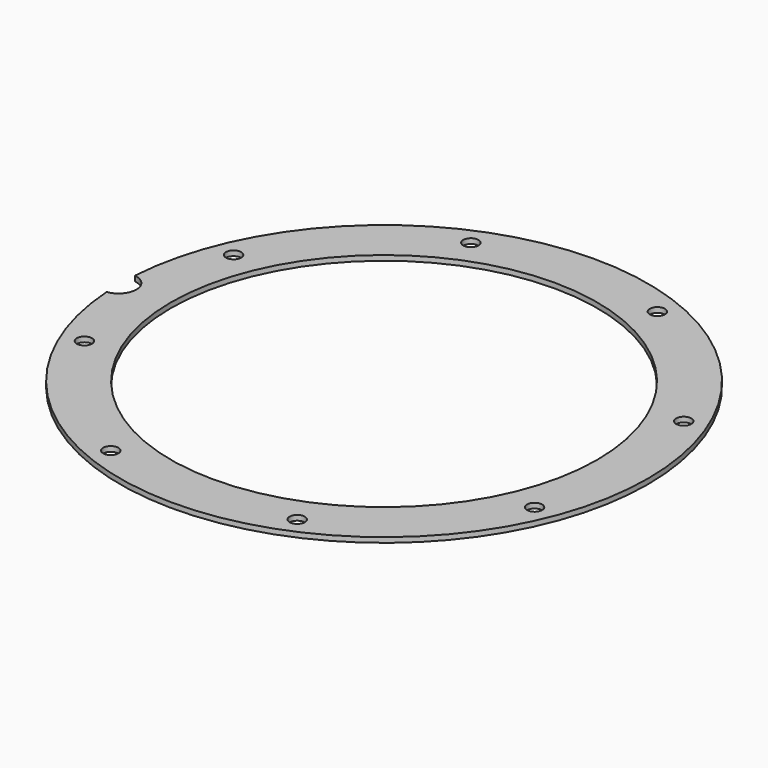
from build123d import *

# Parameters (mm, degrees)
CYLINDER838_R               = 3.5
CYLINDER838_DEPTH           = 20
CYLINDER844_R               = 1.5
CYLINDER844_DEPTH           = 10
CYLINDER844_PLACEMENT_ANGLE = 67.5
CYLINDER845_R               = 1.5
CYLINDER845_DEPTH           = 10
CYLINDER845_PLACEMENT_ANGLE = 112.5
CYLINDER841_R               = 1.5
CYLINDER841_DEPTH           = 10
CYLINDER841_PLACEMENT_ANGLE = 157.5
CYLINDER847_R               = 1.5
CYLINDER847_DEPTH           = 10
CYLINDER847_PLACEMENT_ANGLE = 202.5
CYLINDER839_R               = 1.5
CYLINDER839_DEPTH           = 10
CYLINDER839_PLACEMENT_ANGLE = 112.500002
CYLINDER849_R               = 1.5
CYLINDER849_DEPTH           = 10
CYLINDER849_PLACEMENT_ANGLE = 67.5
CYLINDER848_R               = 1.5
CYLINDER848_DEPTH           = 10
CYLINDER848_PLACEMENT_ANGLE = 22.5
CYLINDER846_R               = 1.5
CYLINDER846_DEPTH           = 10
CYLINDER846_PLACEMENT_ANGLE = 22.5
TUBE080_R                   = 52
TUBE080_R_2                 = 42
TUBE080_DEPTH               = 1


with BuildPart() as obj1:
    # Cylinder838 → Cylinder838 (new body)
    with BuildSketch(Plane(origin=(-52.3, 0, 29), x_dir=(1, 0, 0), z_dir=(0, 0, 1))):
        Circle(CYLINDER838_R)
    extrude(amount=CYLINDER838_DEPTH)


with BuildPart() as obj2:
    # Cylinder844 → Cylinder844 (new body)
    with BuildSketch(Plane.XY):
        Circle(CYLINDER844_R)
    extrude(amount=CYLINDER844_DEPTH)


with BuildPart() as obj2_1:
    # Cylinder844 placement: moved
    add(obj2.part.moved(Location((44.346218, -18.368805, 35.5))).rotate(Axis((44.346218, -18.368805, 35.5), (0, 0, 1)), CYLINDER844_PLACEMENT_ANGLE))


with BuildPart() as obj3:
    # Cylinder845 → Cylinder845 (new body)
    with BuildSketch(Plane.XY):
        Circle(CYLINDER845_R)
    extrude(amount=CYLINDER845_DEPTH)


with BuildPart() as obj3_1:
    # Cylinder845 placement: moved
    add(obj3.part.moved(Location((44.346218, 18.368805, 35.5))).rotate(Axis((44.346218, 18.368805, 35.5), (0, 0, 1)), CYLINDER845_PLACEMENT_ANGLE))


with BuildPart() as obj4:
    # Cylinder841 → Cylinder841 (new body)
    with BuildSketch(Plane.XY):
        Circle(CYLINDER841_R)
    extrude(amount=CYLINDER841_DEPTH)


with BuildPart() as obj4_1:
    # Cylinder841 placement: moved
    add(obj4.part.moved(Location((18.368805, 44.346218, 35.5))).rotate(Axis((18.368805, 44.346218, 35.5), (0, 0, 1)), CYLINDER841_PLACEMENT_ANGLE))


with BuildPart() as obj5:
    # Cylinder847 → Cylinder847 (new body)
    with BuildSketch(Plane.XY):
        Circle(CYLINDER847_R)
    extrude(amount=CYLINDER847_DEPTH)


with BuildPart() as obj5_1:
    # Cylinder847 placement: moved
    add(obj5.part.moved(Location((-18.368805, 44.346218, 35.5))).rotate(Axis((-18.368805, 44.346218, 35.5), (0, 0, 1)), CYLINDER847_PLACEMENT_ANGLE))


with BuildPart() as obj6:
    # Cylinder839 → Cylinder839 (new body)
    with BuildSketch(Plane.XY):
        Circle(CYLINDER839_R)
    extrude(amount=CYLINDER839_DEPTH)


with BuildPart() as obj6_1:
    # Cylinder839 placement: moved
    add(obj6.part.moved(Location((-44.346218, 18.368805, 35.5))).rotate(Axis((-44.346218, 18.368805, 35.5), (0, 0, -1)), CYLINDER839_PLACEMENT_ANGLE))


with BuildPart() as obj7:
    # Cylinder849 → Cylinder849 (new body)
    with BuildSketch(Plane.XY):
        Circle(CYLINDER849_R)
    extrude(amount=CYLINDER849_DEPTH)


with BuildPart() as obj7_1:
    # Cylinder849 placement: moved
    add(obj7.part.moved(Location((-44.346218, -18.368805, 35.5))).rotate(Axis((-44.346218, -18.368805, 35.5), (0, 0, -1)), CYLINDER849_PLACEMENT_ANGLE))


with BuildPart() as obj8:
    # Cylinder848 → Cylinder848 (new body)
    with BuildSketch(Plane.XY):
        Circle(CYLINDER848_R)
    extrude(amount=CYLINDER848_DEPTH)


with BuildPart() as obj8_1:
    # Cylinder848 placement: moved
    add(obj8.part.moved(Location((-18.368805, -44.346218, 35.5))).rotate(Axis((-18.368805, -44.346218, 35.5), (0, 0, -1)), CYLINDER848_PLACEMENT_ANGLE))


with BuildPart() as compound753:
    # Cylinder846 → Cylinder846 (new body)
    with BuildSketch(Plane.XY):
        Circle(CYLINDER846_R)
    extrude(amount=CYLINDER846_DEPTH)


with BuildPart() as compound753_1:
    # Cylinder846 placement: moved
    add(compound753.part.moved(Location((18.368805, -44.346218, 35.5))).rotate(Axis((18.368805, -44.346218, 35.5), (0, 0, 1)), CYLINDER846_PLACEMENT_ANGLE))

    # Compound753: union obj2, obj3, obj4, obj5, obj6, obj7, obj8
    add(obj2_1.part)
    add(obj3_1.part)
    add(obj4_1.part)
    add(obj5_1.part)
    add(obj6_1.part)
    add(obj7_1.part)
    add(obj8_1.part)


with BuildPart() as cut386:
    # Tube080 → Tube080 (new body)
    with BuildSketch(Plane.XY.offset(37)):
        Circle(TUBE080_R)
        Circle(TUBE080_R_2, mode=Mode.SUBTRACT)
    extrude(amount=TUBE080_DEPTH)

    # Cut385: cut Compound753
    add(compound753_1.part, mode=Mode.SUBTRACT)

    # Cut386: cut obj1
    add(obj1.part, mode=Mode.SUBTRACT)


solid = cut386.part
